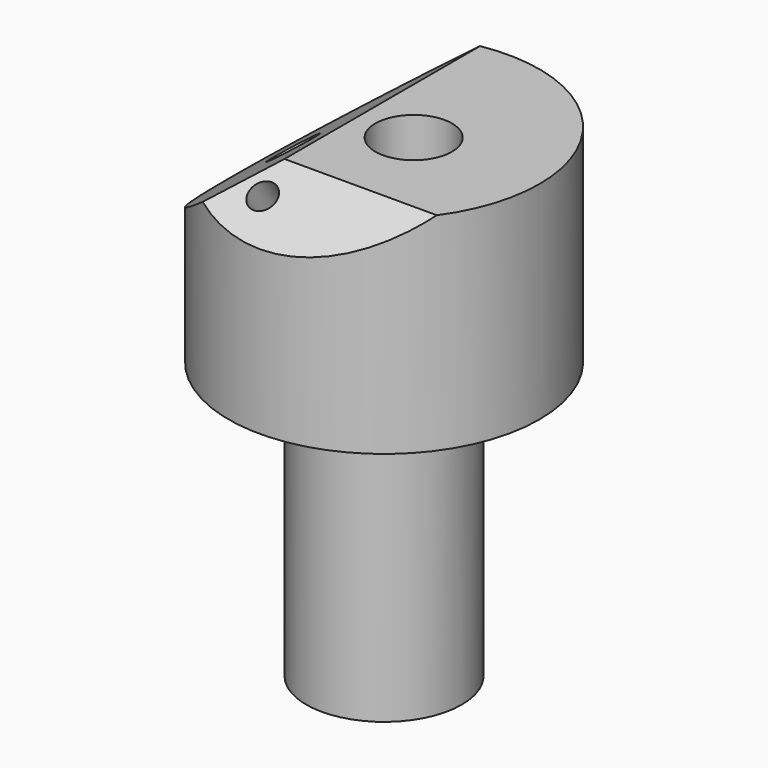
from build123d import *

# Parameters (mm, degrees)
F0_W           = 14.2875
F0_H           = 50.8
F2_R           = 7.0485
F3_DEPTH       = 88.901
F2_R_2         = 4.3815
F2_R_3         = 1.5875
F4_DEPTH       = 71.12
F6_DEPTH       = 28.576
F6_DEPTH_BACK  = 28.576
F7_R           = 4.3815
F8_DEPTH       = 15.24
F10_DEPTH      = 28.576
F10_DEPTH_BACK = 28.576
F11_R          = 2.517044934
F12_DEPTH      = 25.4


with BuildPart() as f1:
    # F0 (on Front) → F1 (revolve)
    with BuildSketch(Plane.XZ):
        Polygon((0, 88.9), (0, 50.8), (14.2875, 50.8), (28.575, 50.8), (28.575, 88.9), align=None)
        with Locations((7.14375, 25.4)):
            Rectangle(F0_W, F0_H)
    revolve(axis=Axis((0, 0, 25.4), (0, 0, 1)))

    # F2 (on face) → F3 (cut, through all)
    with BuildSketch(Plane(origin=(0, 0, 0), x_dir=(1, 0, 0), z_dir=(0, 0, -1))):
        with Locations((5.4483, 0)):
            Circle(F2_R)
    extrude(amount=-F3_DEPTH, mode=Mode.SUBTRACT)

    # F2 (on face) → F4 (cut)
    with BuildSketch(Plane(origin=(0, 0, 0), x_dir=(1, 0, 0), z_dir=(0, 0, -1))):
        with Locations((-8.1153, 0)):
            Circle(F2_R_2)
        with Locations((-3.3415136859, 7.1955672465)):
            Circle(F2_R_3)
    extrude(amount=-F4_DEPTH, mode=Mode.SUBTRACT)

    # F5 (on Front) → F6 (cut, two sides)
    with BuildSketch(Plane.XZ) as f6_sk:
        Polygon((-31.2208328396, 69.2149996758), (0, 92.5436764956), (-31.2208328396, 92.4983397126), align=None)
    extrude(amount=-F6_DEPTH, mode=Mode.SUBTRACT)
    extrude(f6_sk.sketch, amount=F6_DEPTH_BACK, mode=Mode.SUBTRACT)

    # F7 (on face) → F8 (cut)
    with BuildSketch(Plane(origin=(-44.3744352731, 0, 59.3864297025), x_dir=(0.8010695685, 0, 0.5985712543), z_dir=(-0.5985712543, 0, 0.8010695685))):
        with Locations((34.5289222896, 0)):
            Circle(F7_R)
    extrude(amount=-F8_DEPTH, mode=Mode.SUBTRACT)

    # F9 (on Right) → F10 (cut, two sides)
    with BuildSketch(Plane.YZ) as f10_sk:
        Polygon((-39.1586869955, 73.3165889978), (-11.2496605143, 92.7487313747), (-39.1586869955, 97.8193457674), align=None)
    extrude(amount=-F10_DEPTH, mode=Mode.SUBTRACT)
    extrude(f10_sk.sketch, amount=F10_DEPTH_BACK, mode=Mode.SUBTRACT)

    # F11 (on face) → F12 (cut)
    with BuildSketch(Plane(origin=(0, -47.1660624195, 67.7413153706), x_dir=(1, 0, 0), z_dir=(0, -0.5714046236, 0.8206684812))):
        with Locations((-4.5785461552, 30.4776653647)):
            Circle(F11_R)
    extrude(amount=-F12_DEPTH, mode=Mode.SUBTRACT)


solid = f1.part
